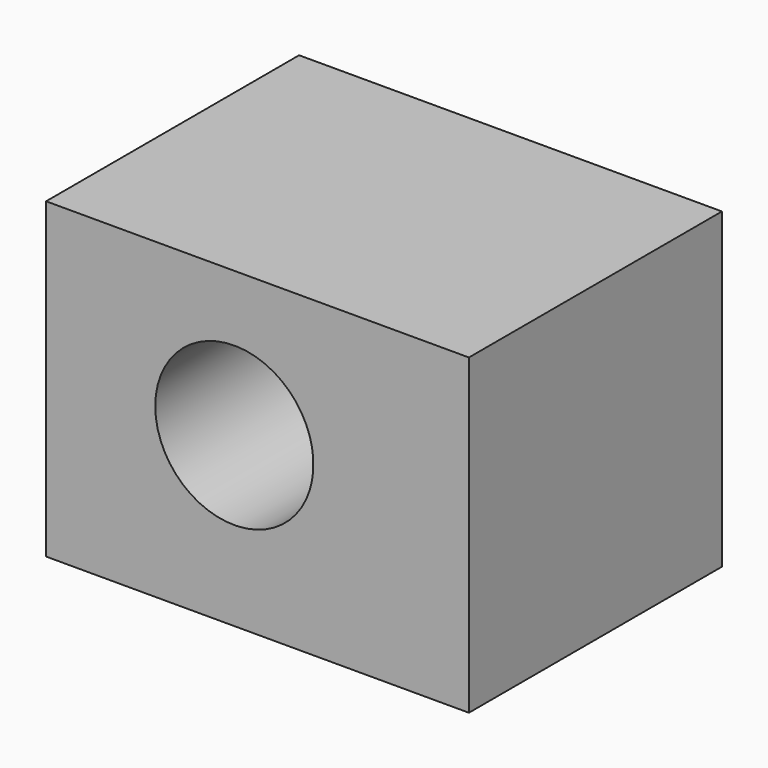
from build123d import *

# Parameters (mm, degrees)
F0_W     = 33.957731
F0_H     = 25.119421
F1_DEPTH = 25.4
F3_D     = 12.7
F3_DEPTH = 25.4


with BuildPart() as f1:
    # F0 (on Front) → F1 (new body)
    with BuildSketch(Plane.XZ):
        with Locations((-29.305988, 27.445291)):
            Rectangle(F0_W, F0_H)
    extrude(amount=F1_DEPTH)

    # F3
    with Locations(Plane.XZ.offset(25.4)):
        with Locations((-31.166686, 28.375639)):
            Hole(F3_D / 2, depth=F3_DEPTH)


solid = f1.part
